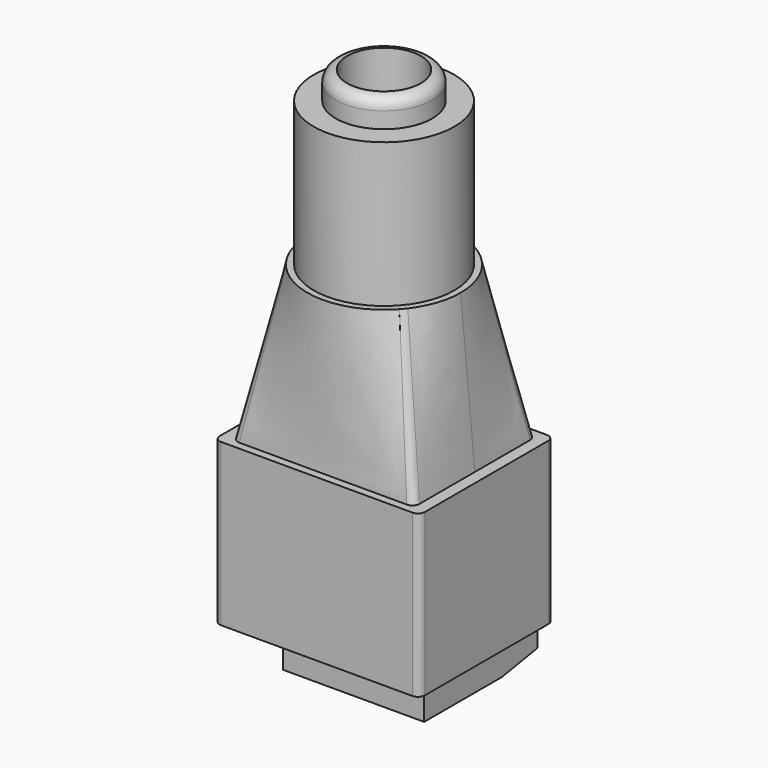
from build123d import *

# Parameters (mm, degrees)
SKETCH002_R     = 5.45
SKETCH003_R     = 5
PAD001_DEPTH    = 10.25
SKETCH004_R     = 2.625
SKETCH004_R_2   = 1.11
POCKET_DEPTH    = 8
SKETCH005_R     = 3.43
SKETCH005_R_2   = 2.625
PAD002_DEPTH    = 1.95
FILLET_R        = 0.8
SKETCH_W        = 14.6
SKETCH_H        = 11.96
PAD_DEPTH       = 11.48
SKETCH006_W     = 10.03
SKETCH006_H     = 10.07
PAD003_DEPTH    = 5.75
POCKET001_DEPTH = 10.031
FILLET001_R     = 0.5
SKETCH008_R     = 1.815
POCKET002_DEPTH = 2
SKETCH009_W     = 4.14
SKETCH009_H     = 5.42
POCKET003_DEPTH = 0.67
CHAMFER_SIZE    = 0.65
SKETCH010_W     = 2.8
SKETCH010_H     = 2.07
POCKET004_DEPTH = 5


with BuildPart() as fillet_body:
    # Sketch001 → Loft section 0
    with BuildSketch(Plane.XY.offset(11.48)):
        with BuildLine():
            Line((-5.96, 5.42), (5.96, 5.42))
            ThreePointArc((6.46, 4.92), (6.313553, 5.273553), (5.96, 5.42))
            Line((6.46, 4.92), (6.46, -4.92))
            ThreePointArc((5.96, -5.42), (6.313553, -5.273553), (6.46, -4.92))
            Line((5.96, -5.42), (-5.96, -5.42))
            ThreePointArc((-6.46, -4.92), (-6.313553, -5.273553), (-5.96, -5.42))
            Line((-6.46, -4.92), (-6.46, 4.92))
            ThreePointArc((-5.96, 5.42), (-6.313553, 5.273553), (-6.46, 4.92))
        make_face()
    # Sketch002 → Loft section 1
    with BuildSketch(Plane.XY.offset(22.37)):
        Circle(SKETCH002_R)
    loft(ruled=True)

    # Sketch003 → Pad001 (new body)
    with BuildSketch(Plane.XY.offset(22.37)):
        Circle(SKETCH003_R)
    extrude(amount=PAD001_DEPTH)

    # Sketch004 → Pocket (cut)
    with BuildSketch(Plane.XY.offset(32.62)):
        Circle(SKETCH004_R)
        Circle(SKETCH004_R_2, mode=Mode.SUBTRACT)
    extrude(amount=-POCKET_DEPTH, mode=Mode.SUBTRACT)

    # Sketch005 → Pad002 (new body)
    with BuildSketch(Plane.XY.offset(32.62)):
        Circle(SKETCH005_R)
        Circle(SKETCH005_R_2, mode=Mode.SUBTRACT)
    extrude(amount=PAD002_DEPTH)

    # Fillet
    fillet_edges = [fillet_body.edges().sort_by_distance(p)[0] for p in [
        (-3.43, 0, 34.57),
    ]]
    fillet(fillet_edges, radius=FILLET_R)


with BuildPart() as fusion:
    # Sketch → Pad (new body)
    with BuildSketch(Plane.XY):
        Rectangle(SKETCH_W, SKETCH_H)
    extrude(amount=PAD_DEPTH)

    # Fusion: union Fillet body
    add(fillet_body.part)


with BuildPart() as obj1:
    # Sketch006 → Pad003 (new body)
    with BuildSketch(Plane(origin=(0, 0, 2.21), x_dir=(1, 0, 0), z_dir=(0, 0, -1))):
        with Locations((0, -2.335)):
            Rectangle(SKETCH006_W, SKETCH006_H)
    extrude(amount=PAD003_DEPTH)

    # Sketch007 → Pocket001 (cut, through all)
    with BuildSketch(Plane(origin=(-5.015, 0, 2.21), x_dir=(0, 1, 0), z_dir=(-1, 0, 0))):
        Polygon((15, 3.936222), (0, 6.460032), (0, 8.936222), (15, 8.936222), align=None)
    extrude(amount=-POCKET001_DEPTH, mode=Mode.SUBTRACT)

    # Fusion001: union Fusion
    add(fusion.part)

    # Fillet001
    fillet001_edges = [obj1.edges().sort_by_distance(p)[0] for p in [
        (7.3, 5.98, 5.74),
        (-7.3, 5.98, 5.74),
        (7.3, -5.98, 5.74),
        (-7.3, -5.98, 5.74),
    ]]
    fillet(fillet001_edges, radius=FILLET001_R)

    # Sketch008 → Pocket002 (cut)
    with BuildSketch(Plane(origin=(0, 7.37, 0), x_dir=(-1, 0, 0), z_dir=(0, 1, 0))):
        with Locations((-2.5075, -0.4)):
            Circle(SKETCH008_R)
        with Locations((2.5075, -0.4)):
            Circle(SKETCH008_R)
    extrude(amount=-POCKET002_DEPTH, mode=Mode.SUBTRACT)

    # Sketch009 → Pocket003 (cut)
    with BuildSketch(Plane(origin=(0, 0, -3.54), x_dir=(1, 0, 0), z_dir=(0, 0, -1))):
        with Locations((-2.535, -0.69)):
            Rectangle(SKETCH009_W, SKETCH009_H)
        with Locations((2.535, -0.69)):
            Rectangle(SKETCH009_W, SKETCH009_H)
    extrude(amount=-POCKET003_DEPTH, mode=Mode.SUBTRACT)

    # Chamfer
    chamfer_edges = [obj1.edges().sort_by_distance(p)[0] for p in [
        (2.535, 3.4, -3.54),
        (-2.535, 3.4, -3.54),
    ]]
    chamfer(chamfer_edges, length=CHAMFER_SIZE)

    # Sketch010 → Pocket004 (cut)
    with BuildSketch(Plane(origin=(0, 0, -2.87), x_dir=(1, 0, 0), z_dir=(0, 0, -1))):
        with Locations((-2.585, 0.655)):
            Rectangle(SKETCH010_W, SKETCH010_H)
        with Locations((2.585, 0.655)):
            Rectangle(SKETCH010_W, SKETCH010_H)
    extrude(amount=-POCKET004_DEPTH, mode=Mode.SUBTRACT)


solid = obj1.part
